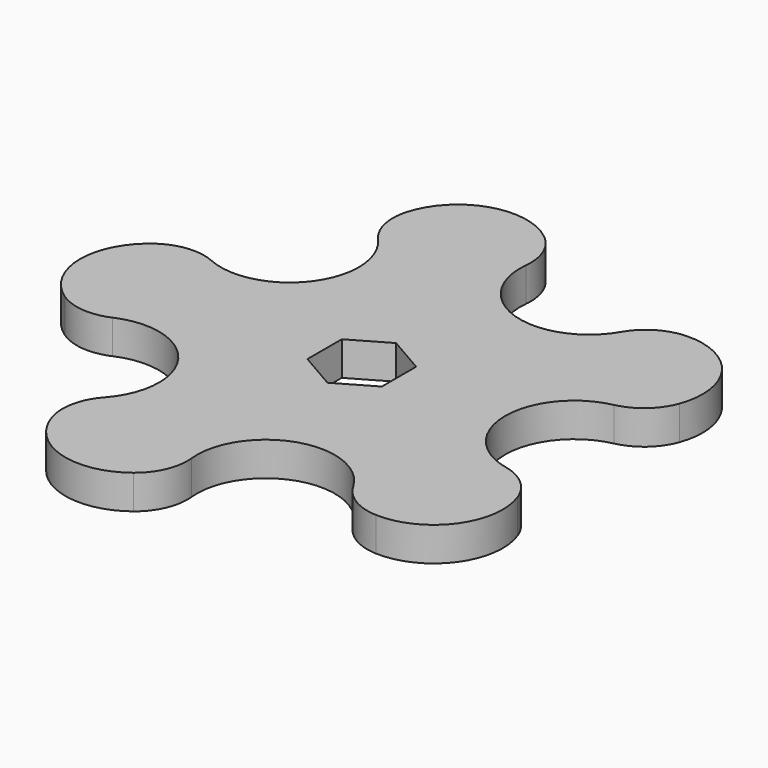
from build123d import *

# Parameters (mm, degrees)
F1_DEPTH = 3.2
F2_R     = 5


with BuildPart() as f1:
    # F0 (on Top) → F1 (new body)
    with BuildSketch(Plane.XY):
        with BuildLine():
            ThreePointArc((-12.36068, 17.013016), (-10.923029, 7.936045), (-20, 6.498394))
            ThreePointArc((-20, 6.498394), (-26.498394, 0), (-20, -6.498394))
            ThreePointArc((-20, -6.498394), (-10.923029, -7.936045), (-12.36068, -17.013016))
            ThreePointArc((-12.36068, -17.013016), (-8.188454, -25.20147), (0, -21.029244))
            ThreePointArc((0, -21.029244), (4.172226, -12.84079), (12.36068, -17.013016))
            ThreePointArc((12.36068, -17.013016), (21.437651, -15.575365), (20, -6.498394))
            ThreePointArc((20, -6.498394), (13.501606, 0), (20, 6.498394))
            ThreePointArc((20, 6.498394), (21.437651, 15.575365), (12.36068, 17.013016))
            ThreePointArc((12.36068, 17.013016), (4.172226, 12.84079), (0, 21.029244))
            ThreePointArc((0, 21.029244), (-8.188454, 25.20147), (-12.36068, 17.013016))
        make_face()
        Polygon((0, 4.041452), (3.5, 2.020726), (3.5, -2.020726), (0, -4.041452), (-3.5, -2.020726), (-3.5, 2.020726), align=None, mode=Mode.SUBTRACT)
    extrude(amount=F1_DEPTH)

    # F2
    f2_edges = [f1.edges().sort_by_distance(p)[0] for p in [
        (-12.36068, 17.013016, 1.6),
        (-20, 6.498394, 1.6),
        (0, 21.029244, 1.6),
        (12.36068, 17.013016, 1.6),
        (20, 6.498394, 1.6),
        (20, -6.498394, 1.6),
        (12.36068, -17.013016, 1.6),
        (0, -21.029244, 1.6),
        (-12.36068, -17.013016, 1.6),
        (-20, -6.498394, 1.6),
    ]]
    fillet(f2_edges, radius=F2_R)


solid = f1.part
